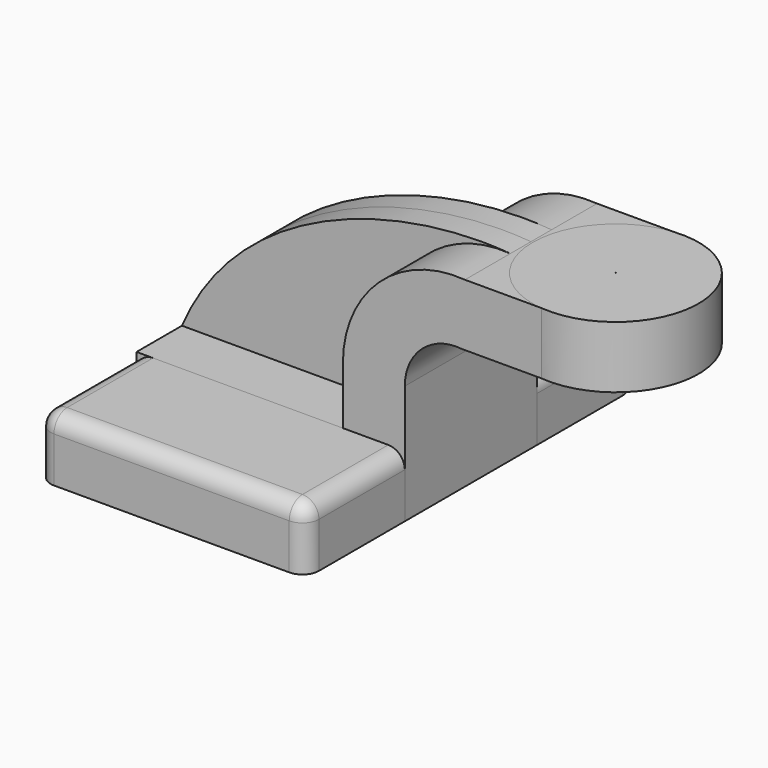
from build123d import *

# Parameters (mm, degrees)
F1_DEPTH = 63.5
F0_W     = 25.4
F0_H     = 19.0500000358
F2_DEPTH = 25.4
F3_DEPTH = 7.9375
F5_R     = 5.08


with BuildPart() as f1:
    # F0 (on Front) → F1 (new body, symmetric)
    with BuildSketch(Plane.XZ):
        Polygon((-41.275, 9.525), (-41.275, -9.525), (41.275, -9.525), (41.275, 9.525), (22.2249999642, 9.525), align=None)
    extrude(amount=F1_DEPTH, both=True)

    # F5
    f5_edges = [f1.edges().sort_by_distance(p)[0] for p in [
        (41.275, -63.5, 0),
        (-41.275, -63.5, 0),
        (41.275, 63.5, 0),
        (-41.275, 63.5, 0),
        (0, 63.5, 9.525),
        (-41.275, 0, 9.525),
        (41.275, 0, 9.525),
        (0, -63.5, 9.525),
    ]]
    fillet(f5_edges, radius=F5_R)


with BuildPart() as f2:
    # F0 (on Front) → F2 (new body, symmetric)
    with BuildSketch(Plane.XZ):
        Polygon((-41.275, 9.525), (-41.275, -9.525), (41.275, -9.525), (41.275, 9.525), (22.2249999642, 9.525), align=None)
        with BuildLine():
            Line((22.2249999642, 9.525), (41.275, 9.525))
            Line((41.275, 9.525), (41.275, 27.0987547464))
            ThreePointArc((41.275, 27.0987547464), (46.5675267568, 38.9320503591), (58.9161823693, 42.8752))
            Line((58.9161823693, 42.8752), (60.325, 42.8752))
            Line((60.325, 42.8752), (60.325, 61.9252000358))
            Line((60.325, 61.9252000358), (59.7718954991, 61.9252000358))
            ThreePointArc((59.7718954991, 61.9252000358), (33.3993586708, 52.7046654694), (22.2249999642, 27.0987547464))
            Line((22.2249999642, 27.0987547464), (22.2249999642, 9.525))
        make_face()
        with Locations((73.025, 52.4002000179)):
            Rectangle(F0_W, F0_H)
    extrude(amount=F2_DEPTH, both=True)


with BuildPart() as f3:
    # F0 (on Front) → F3 (new body, symmetric)
    with BuildSketch(Plane.XZ):
        with BuildLine():
            add(Edge.make_bspline(
                [(-41.275, 9.525), (-23.7360652536, 50.6103560328), (25.3975912929, 64.8403167725), (59.7718954991, 61.9252000358)],
                knots=[0, 0, 0, 0, 113.8255509708, 113.8255509708, 113.8255509708, 113.8255509708], degree=3))
            Line((-41.275, 9.525), (22.2249999642, 9.525))
            Line((22.2249999642, 9.525), (22.2249999642, 27.0987547464))
            ThreePointArc((22.2249999642, 27.0987547464), (33.3993586708, 52.7046654694), (59.7718954991, 61.9252000358))
        make_face()
    extrude(amount=F3_DEPTH, both=True)


with BuildPart() as f4:
    # F0 (on Front) → F4 (revolve)
    with BuildSketch(Plane.XZ):
        with Locations((73.025, 52.4002000179)):
            Rectangle(F0_W, F0_H)
    revolve(axis=Axis((85.8480844794, 0, 52.3875), (0, 0, -1)))


solid = Compound([f1.part, f2.part, f3.part, f4.part])
